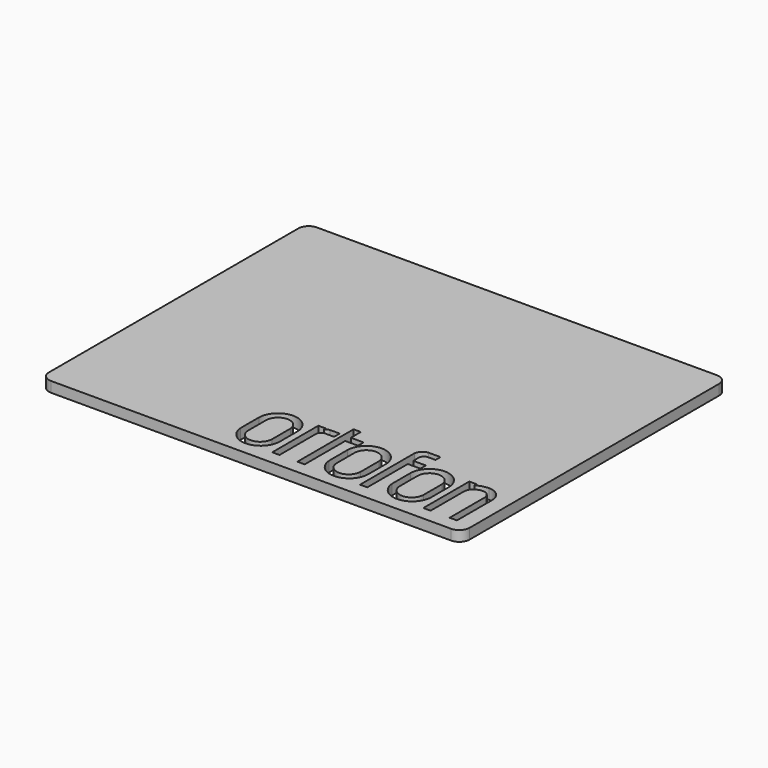
from build123d import *

# Parameters (mm, degrees)
F1_DEPTH = 2


with BuildPart() as f1:
    # F0 (on Top) → F1 (new body)
    with BuildSketch(Plane.XY):
        with BuildLine():
            Line((38.5, 32), (-38.5, 32))
            ThreePointArc((-38.5, 32), (-39.914214, 31.414214), (-40.5, 30))
            Line((-40.5, 30), (-40.5, -30))
            ThreePointArc((-40.5, -30), (-39.914214, -31.414214), (-38.5, -32))
            Line((-38.5, -32), (38.5, -32))
            ThreePointArc((38.5, -32), (39.914214, -31.414214), (40.5, -30))
            Line((40.5, -30), (40.5, 30))
            ThreePointArc((40.5, 30), (39.914214, 31.414214), (38.5, 32))
        make_face()
        with BuildLine():
            Line((-6.683545, -26.171246), (-6.683545, -21.774288))
            ThreePointArc((-6.683545, -21.774288), (-3.132122, -18.089166), (0.68167, -21.502041))
            Line((0.68167, -21.502041), (0.68167, -25.898998))
            ThreePointArc((0.68167, -25.898998), (-2.869752, -29.58412), (-6.683545, -26.171246))
        make_face(mode=Mode.SUBTRACT)
        with BuildLine():
            Line((1.966994, -29.363632), (1.966994, -18.263632))
            Line((1.966994, -18.263632), (3.366994, -18.263632))
            Line((3.366994, -18.263632), (3.366994, -18.673532))
            ThreePointArc((3.366994, -18.673532), (3.753039, -18.371299), (4.231353, -18.263632))
            Line((4.231353, -18.263632), (6.084289, -18.263632))
            Line((6.084289, -18.263632), (6.084289, -19.613632))
            Line((6.084289, -19.613632), (4.366994, -19.613632))
            ThreePointArc((4.366994, -19.613632), (3.659887, -19.906525), (3.366994, -20.613632))
            Line((3.366994, -20.613632), (3.366994, -29.363632))
            Line((3.366994, -29.363632), (1.966994, -29.363632))
        make_face(mode=Mode.SUBTRACT)
        Polygon((6.834289, -29.373545), (6.834289, -15.873545), (8.234289, -15.873545), (8.234289, -18.273545), (10.684289, -18.273545), (10.684289, -19.623545), (8.234289, -19.623545), (8.234289, -29.373545), align=None, mode=Mode.SUBTRACT)
        with BuildLine():
            Line((10.3399, -26.162138), (10.3399, -21.765181))
            ThreePointArc((10.3399, -21.765181), (13.891322, -18.080059), (17.705115, -21.492933))
            Line((17.705115, -21.492933), (17.705115, -25.88989))
            ThreePointArc((17.705115, -25.88989), (14.153692, -29.575013), (10.3399, -26.162138))
        make_face(mode=Mode.SUBTRACT)
        with BuildLine():
            Line((18.863173, -29.348086), (18.863173, -16.193276))
            ThreePointArc((18.863173, -16.193276), (19.392742, -15.228356), (20.392532, -14.767994))
            Line((20.392532, -14.767994), (22.685896, -14.767994))
            Line((22.685896, -14.767994), (22.685896, -15.967994))
            Line((22.685896, -15.967994), (21.263173, -15.967994))
            ThreePointArc((21.263173, -15.967994), (20.556066, -16.260887), (20.263173, -16.967994))
            Line((20.263173, -16.967994), (20.263173, -18.277436))
            Line((20.263173, -18.277436), (22.696212, -18.277436))
            Line((22.696212, -18.277436), (22.696212, -19.601548))
            Line((22.696212, -19.601548), (20.263173, -19.601548))
            Line((20.263173, -19.601548), (20.263173, -29.348086))
            Line((20.263173, -29.348086), (18.863173, -29.348086))
        make_face(mode=Mode.SUBTRACT)
        with BuildLine():
            Line((22.422408, -26.097821), (22.422408, -21.700864))
            ThreePointArc((22.422408, -21.700864), (25.97383, -18.015741), (29.787623, -21.428616))
            Line((29.787623, -21.428616), (29.787623, -25.825573))
            ThreePointArc((29.787623, -25.825573), (26.2362, -29.510696), (22.422408, -26.097821))
        make_face(mode=Mode.SUBTRACT)
        with BuildLine():
            Line((31.037623, -29.332731), (31.037623, -18.275848))
            Line((31.037623, -18.275848), (32.433234, -18.275848))
            Line((32.433234, -18.275848), (32.433234, -18.774554))
            ThreePointArc((32.433234, -18.774554), (33.532364, -18.287756), (34.721233, -18.109856))
            ThreePointArc((34.721233, -18.109856), (35.821388, -18.331398), (36.751661, -18.959101))
            ThreePointArc((36.751661, -18.959101), (37.31007, -19.88036), (37.504673, -20.93992))
            Line((37.504673, -20.93992), (37.504673, -29.332731))
            Line((37.504673, -29.332731), (36.104673, -29.332731))
            Line((36.104673, -29.332731), (36.104673, -20.671327))
            ThreePointArc((36.104673, -20.671327), (35.936296, -20.270245), (35.704192, -19.902352))
            ThreePointArc((35.704192, -19.902352), (35.255128, -19.549945), (34.698393, -19.423865))
            ThreePointArc((34.698393, -19.423865), (33.894493, -19.5141), (33.184804, -19.902352))
            ThreePointArc((33.184804, -19.902352), (32.63676, -20.484993), (32.437623, -21.259697))
            Line((32.437623, -21.259697), (32.437623, -29.332731))
            Line((32.437623, -29.332731), (31.037623, -29.332731))
        make_face(mode=Mode.SUBTRACT)
        with BuildLine():
            ThreePointArc((-0.712852, -21.62951), (-3.068331, -19.487796), (-5.283545, -21.774288))
            Line((-5.283545, -21.774288), (-5.283545, -26.171246))
            ThreePointArc((-5.283545, -26.171246), (-2.928066, -28.31296), (-0.712852, -26.026468))
            Line((-0.712852, -26.026468), (-0.712852, -21.62951))
        make_face()
        with BuildLine():
            ThreePointArc((16.310592, -21.620403), (13.955114, -19.478689), (11.7399, -21.765181))
            Line((11.7399, -21.765181), (11.7399, -26.162138))
            ThreePointArc((11.7399, -26.162138), (14.095378, -28.303853), (16.310592, -26.01736))
            Line((16.310592, -26.01736), (16.310592, -21.620403))
        make_face()
        with BuildLine():
            ThreePointArc((28.3931, -21.556086), (26.037622, -19.414371), (23.822408, -21.700864))
            Line((23.822408, -21.700864), (23.822408, -26.097821))
            ThreePointArc((23.822408, -26.097821), (26.177886, -28.239536), (28.3931, -25.953043))
            Line((28.3931, -25.953043), (28.3931, -21.556086))
        make_face()
    extrude(amount=F1_DEPTH)


solid = f1.part
